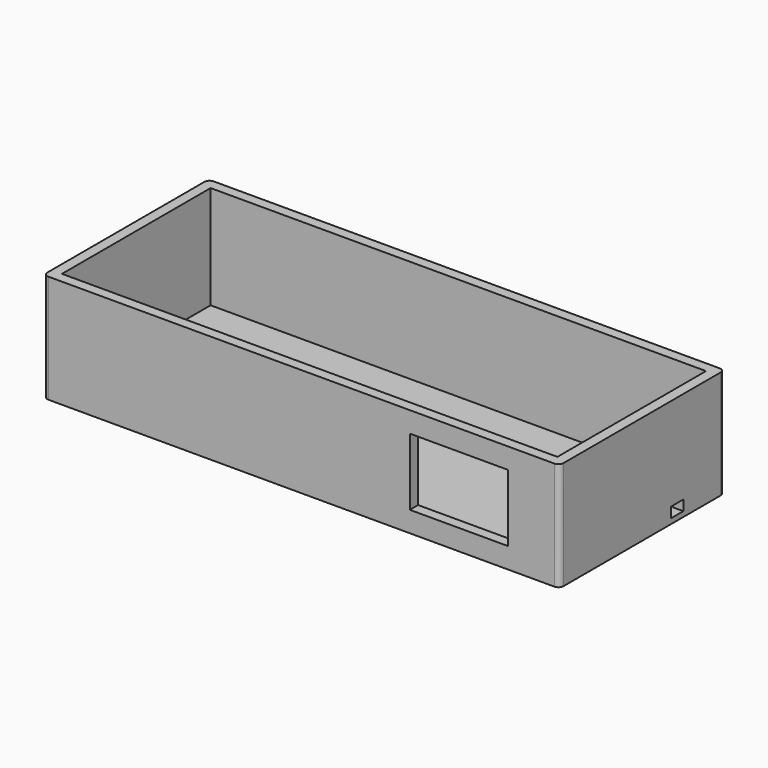
from build123d import *

# Parameters (mm, degrees)
F0_W     = 100
F0_H     = 40
F1_DEPTH = 1
F2_W     = 100
F2_H     = 40
F2_W_2   = 96
F2_H_2   = 36
F3_DEPTH = 20
F4_W     = 3
F4_H     = 2
F5_DEPTH = 25
F6_W     = 19
F6_H     = 13
F7_DEPTH = 25
F8_R     = 1


with BuildPart() as f1:
    # F0 (on Top) → F1 (new body)
    with BuildSketch(Plane.XY):
        with Locations((50, 20)):
            Rectangle(F0_W, F0_H)
    extrude(amount=F1_DEPTH)

    # F2 (on face) → F3 (join)
    with BuildSketch(Plane.XY.offset(1)):
        with Locations((50, 20)):
            Rectangle(F2_W, F2_H)
        with Locations((50, 20)):
            Rectangle(F2_W_2, F2_H_2, mode=Mode.SUBTRACT)
    extrude(amount=F3_DEPTH)

    # F4 (on face) → F5 (cut)
    with BuildSketch(Plane.YZ.offset(100)):
        with Locations((28.5, 2)):
            Rectangle(F4_W, F4_H)
    extrude(amount=-F5_DEPTH, mode=Mode.SUBTRACT)

    # F6 (on face) → F7 (cut)
    with BuildSketch(Plane.XZ):
        with Locations((80.5, 10.5)):
            Rectangle(F6_W, F6_H)
    extrude(amount=-F7_DEPTH, mode=Mode.SUBTRACT)

    # F8
    f8_edges = [f1.edges().sort_by_distance(p)[0] for p in [
        (0, 0, 10.5),
        (100, 0, 10.5),
        (100, 40, 10.5),
        (0, 40, 10.5),
    ]]
    fillet(f8_edges, radius=F8_R)


solid = f1.part
